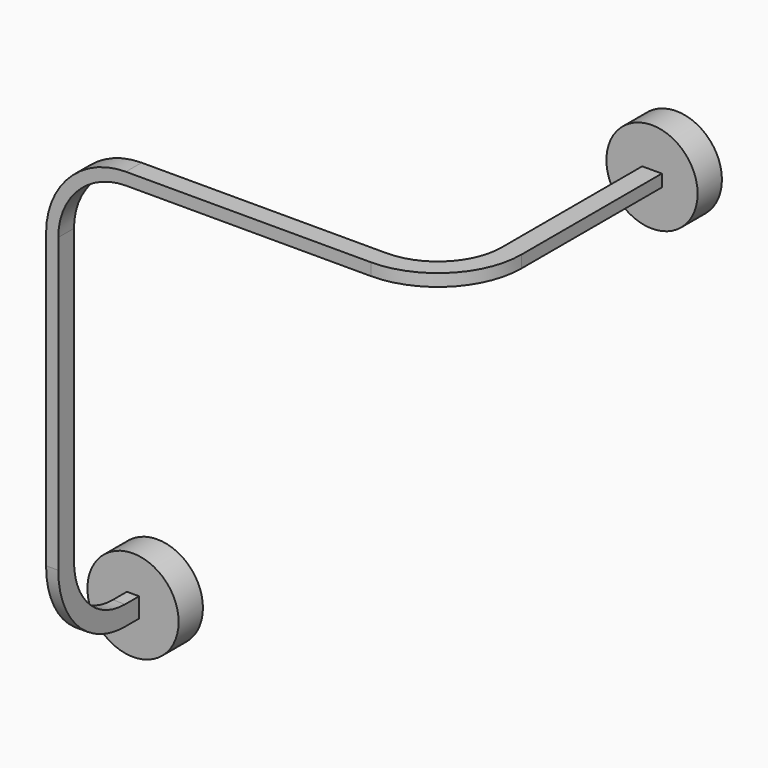
from build123d import *

# Parameters (mm, degrees)
F7_W      = 2.55
F7_H      = 4.1
F7_W_2    = 1.55
F7_H_2    = 3.1
F6_R      = 9.525
F6_W      = 4.1
F6_H      = 2.55
F9_DEPTH  = 6.35
F7_R      = 9.525
F10_DEPTH = 6.35


with BuildPart() as f8:
    # F8: sweep along a path in F4, F2, F0
    with BuildLine(Plane.YZ.offset(-82)) as f8_path:
        Line((0, -92), (-10, -92))
        ThreePointArc((-10, -92), (-20.8894444303, -87.4894444303), (-25.4, -76.6))
        Line((-25.4, -76.6), (-25.4, -66.6))
    with BuildLine(Plane.XZ.offset(25.4)) as f8_path_2:
        Line((-82, -66.6), (-82, -25.4))
        Line((-82, -25.4), (-82, -15.4))
        ThreePointArc((-82, -15.4), (-77.4894444303, -4.5105555697), (-66.6, 0))
        Line((-66.6, 0), (-56.6, 0))
    with BuildLine(Plane.XY) as f8_path_3:
        Line((-56.6, -25.4), (-25.4, -25.4))
        Line((-25.4, -25.4), (-15.4, -25.4))
        ThreePointArc((-15.4, -25.4), (-4.5105555697, -20.8894444303), (0, -10))
        Line((0, -10), (0, 0))
        Line((0, 0), (0, 33))
    # F7 (on Front) → F8 (sweep)
    with BuildSketch(Plane.XZ):
        with Locations((-82, -92)):
            Rectangle(F7_W, F7_H)
        with Locations((-82, -92)):
            Rectangle(F7_W_2, F7_H_2, mode=Mode.SUBTRACT)
    sweep(path=f8_path.line + f8_path_2.line + f8_path_3.line)

    # F6 (on offset) → F9 (join)
    with BuildSketch(Plane.XZ.offset(-33)):
        Circle(F6_R)
        Rectangle(F6_W, F6_H, mode=Mode.SUBTRACT)
    extrude(amount=F9_DEPTH)

    # F7 (on Front) → F10 (join)
    with BuildSketch(Plane.XZ):
        with Locations((-82, -92)):
            Circle(F7_R)
        with Locations((-82, -92)):
            Rectangle(F7_W, F7_H, mode=Mode.SUBTRACT)
    extrude(amount=F10_DEPTH)


solid = f8.part
